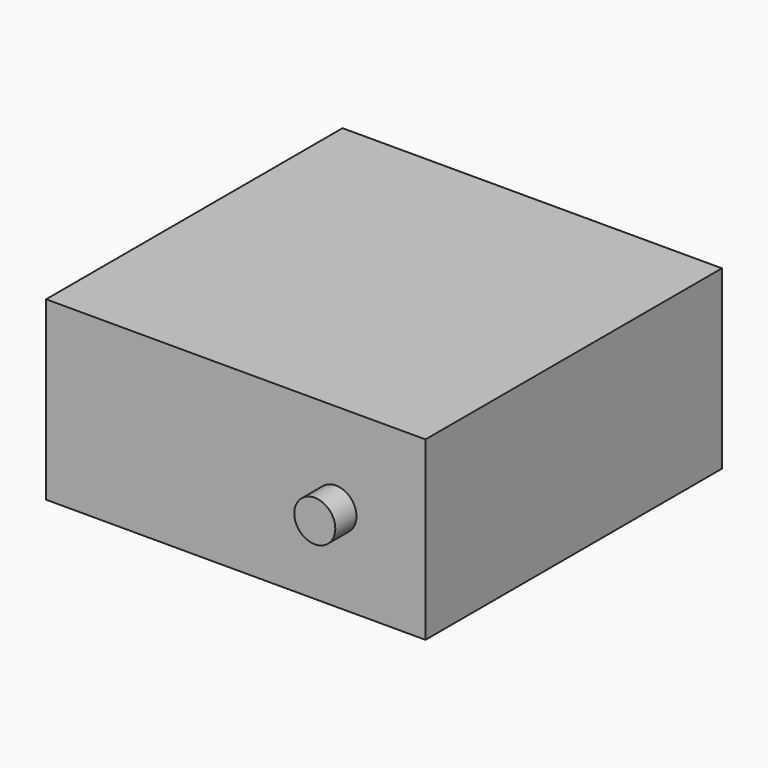
from build123d import *

# Parameters (mm, degrees)
F0_W     = 43
F0_H     = 42
F1_DEPTH = 20
F2_R     = 2.325139
F3_DEPTH = 3


with BuildPart() as f1:
    # F0 (on Top) → F1 (new body)
    with BuildSketch(Plane.XY):
        Rectangle(F0_W, F0_H)
    extrude(amount=F1_DEPTH)

    # F2 (on face) → F3 (join)
    with BuildSketch(Plane.XZ.offset(21)):
        with Locations((11.354135, 9.77934)):
            Circle(F2_R)
    extrude(amount=F3_DEPTH)


solid = f1.part
